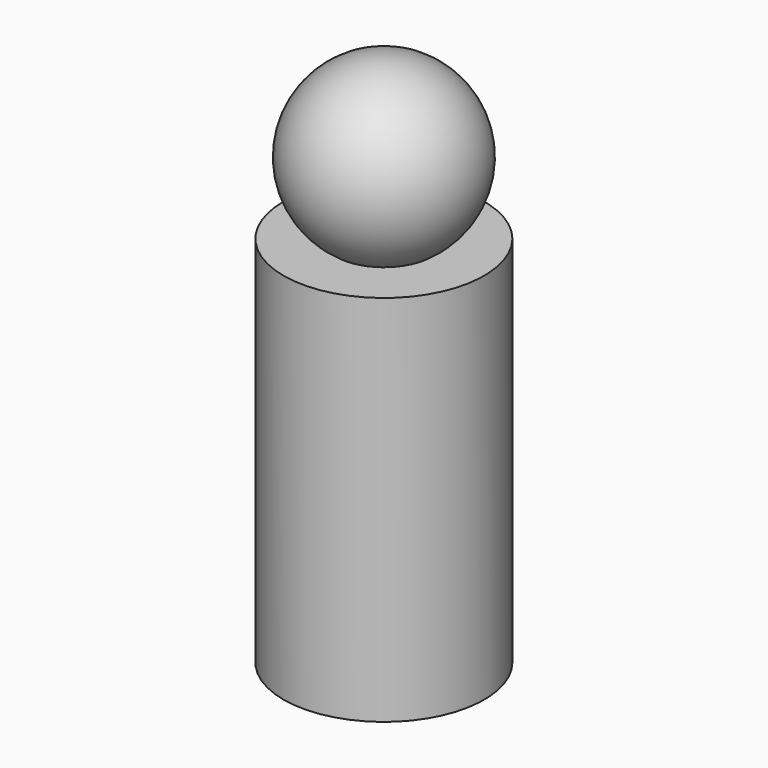
from build123d import *

# Parameters (mm, degrees)
F2_T = -2
F3_R = 20


with BuildPart() as f1:
    # F0 (on Front) → F1 (revolve)
    with BuildSketch(Plane.XZ):
        Polygon((-32, -36.9929058894), (0, -36.9929058894), (0, 74.4539797306), (0, 82.0070941106), (-15.4507753317, 82.0070941106), (-32, 82.0070941106), align=None)
        with BuildLine():
            Line((-15.4507753317, 82.0070941106), (0, 82.0070941106))
            Line((0, 82.0070941106), (0, 132.6008036984))
            ThreePointArc((0, 132.6008036984), (-26.4501886014, 113.0223019318), (-15.4507753317, 82.0070941106))
        make_face()
    revolve(axis=Axis((0, 0, 47.8039489045), (0, 0, 1)))

    # F2
    f2_openings = [f1.faces().sort_by_distance(p)[0] for p in [
        (0, 0, -36.992906),
    ]]
    offset(amount=F2_T, openings=f2_openings, kind=Kind.INTERSECTION)

    # F3
    f3_edges = [f1.edges().sort_by_distance(p)[0] for p in [
        (30, 0, 80.007094),
    ]]
    fillet(f3_edges, radius=F3_R)


solid = f1.part
